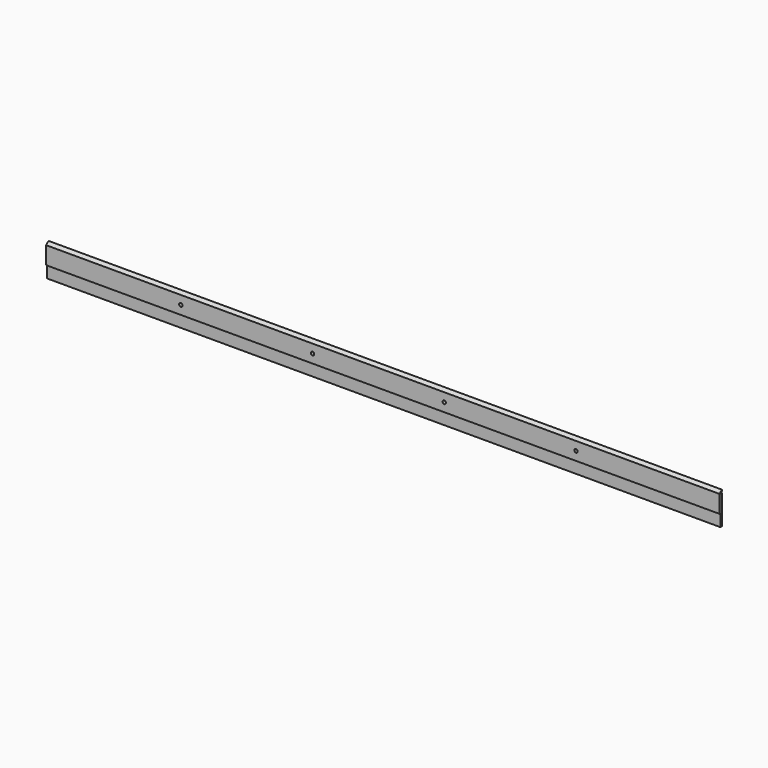
from build123d import *

# Parameters (mm, degrees)
F1_DEPTH = 1061.24375
F2_W     = 3.16943
F2_H     = 44.457636
F3_DEPTH = 1061.24375
F4_R     = 2.667
F5_DEPTH = 4.7635


with BuildPart() as f1:
    # F0 (on Right) → F1 (new body)
    with BuildSketch(Plane.YZ):
        Polygon((0, -2.067539), (0, 0), (-4.7625, -4.029702), (-4.7625, -31.75), (-3.16943, -31.75), (-3.16943, -6.342364), (0, -6.342364), (0, -4.749294), (-3.16943, -4.749294), align=None)
    extrude(amount=F1_DEPTH)


with BuildPart() as f3:
    # F2 (on Right) → F3 (new body, through all)
    with BuildSketch(Plane.YZ):
        with Locations((-1.584715, -28.571182)):
            Rectangle(F2_W, F2_H)
    extrude(amount=F3_DEPTH)


with BuildPart() as f5_tool:
    # F4 (on face) → F5 (new body, through all)
    with BuildSketch(Plane.XZ.offset(4.7625)):
        with Locations((212.24875, -17.889851)):
            Circle(F4_R)
        with Locations((419.89375, -17.889851)):
            Circle(F4_R)
        with Locations((627.53875, -17.889851)):
            Circle(F4_R)
        with Locations((835.18375, -17.889851)):
            Circle(F4_R)
    extrude(amount=-F5_DEPTH)


with BuildPart() as f1_1:
    add(f1.part)

    # F5: cut by f5_tool
    add(f5_tool.part, mode=Mode.SUBTRACT)


with BuildPart() as f3_1:
    add(f3.part)

    # F5: cut by f5_tool
    add(f5_tool.part, mode=Mode.SUBTRACT)


solid = Compound([f1_1.part, f3_1.part])
